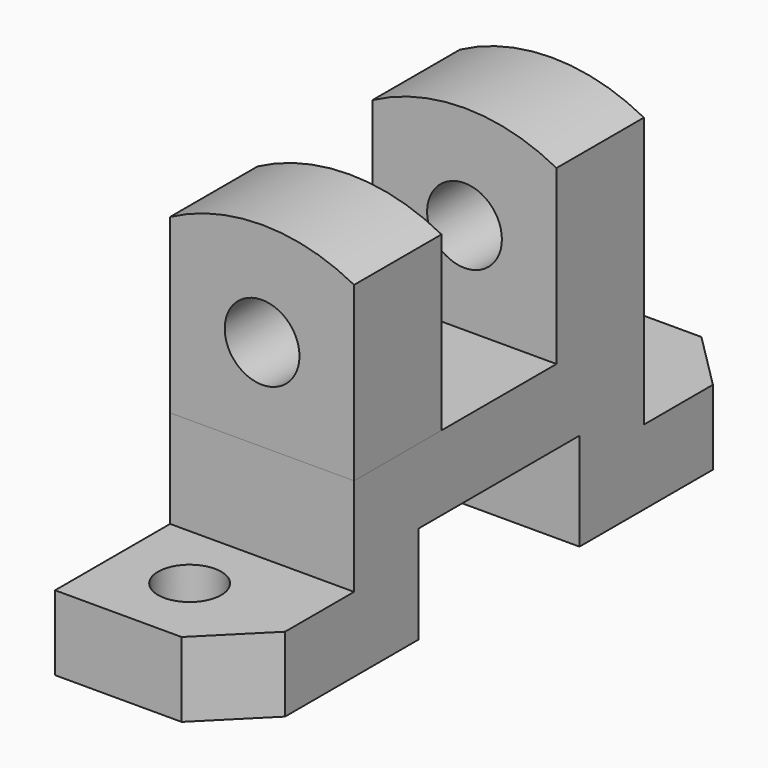
from build123d import *

# Parameters (mm, degrees)
F0_R          = 6.5
F1_DEPTH      = 19
F2_W          = 32
F2_H          = 13
F3_DEPTH      = 12.5
F3_DEPTH_BACK = 19
F4_W          = 32
F4_H          = 14
F5_DEPTH      = 17
F7_R          = 5.5
F8_DEPTH      = 13


with BuildPart() as f1:
    # F0 (on Front) → F1 (new body)
    with BuildSketch(Plane.XZ):
        with BuildLine():
            Line((0, 30), (0, 0))
            Line((0, 0), (32, 0))
            Line((32, 0), (32, 30))
            ThreePointArc((32, 30), (16, 34), (0, 30))
        make_face()
        with Locations((16, 16)):
            Circle(F0_R, mode=Mode.SUBTRACT)
    extrude(amount=F1_DEPTH)


with BuildPart() as f3:
    # F2 (on face) → F3 (new body, two sides)
    with BuildSketch(Plane(origin=(0, 0, 0), x_dir=(-1, 0, 0), z_dir=(0, 1, 0))) as f3_sk:
        with Locations((-16, -6.5)):
            Rectangle(F2_W, F2_H)
    extrude(amount=F3_DEPTH)
    extrude(f3_sk.sketch, amount=-F3_DEPTH_BACK)

    # F4 (on face) → F5 (join)
    with BuildSketch(Plane(origin=(0, 0, -13), x_dir=(1, 0, 0), z_dir=(0, 0, -1))):
        with Locations((16, 12)):
            Rectangle(F4_W, F4_H)
    extrude(amount=F5_DEPTH)

    # F7 (on offset) → F8 (join)
    with BuildSketch(Plane.XY.offset(-30)):
        Polygon((32, -19), (0, -19), (0, -44), (22, -44), (32, -34), align=None)
        with Locations((13, -31)):
            Circle(F7_R, mode=Mode.SUBTRACT)
    extrude(amount=F8_DEPTH)



with BuildPart() as f3_1:
    add(f3.part)
    # F10: F1, F3 across plane
    add(f1.part.mirror(Plane.XZ.offset(-12.5)))
    add(f3.part.mirror(Plane.XZ.offset(-12.5)))


solid = Compound([f1.part, f3_1.part])
